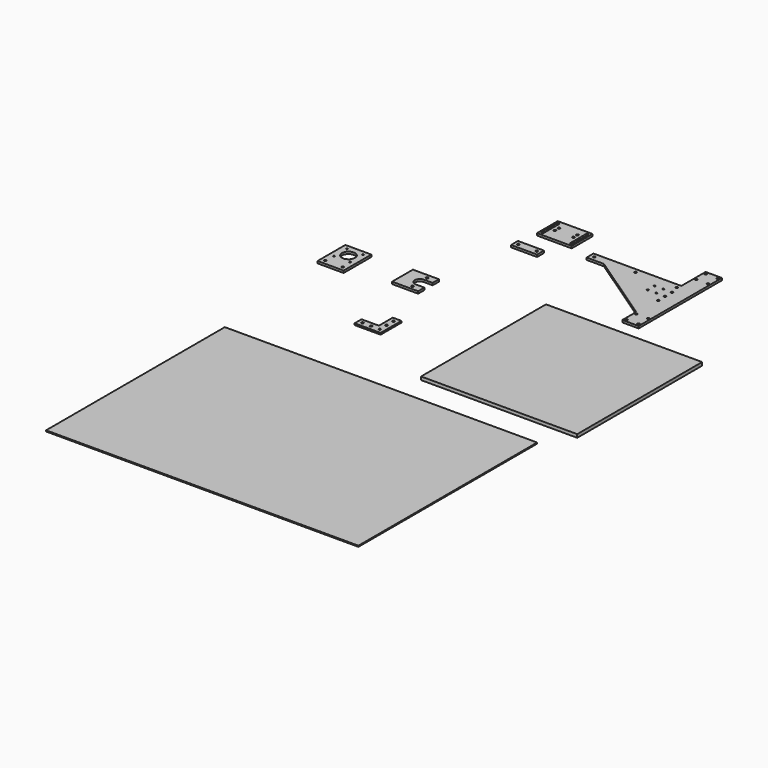
from build123d import *

# Parameters (mm, degrees)
F0_W      = 457.2
F0_H      = 457.2
F1_DEPTH  = 9.525
F2_R      = 3.2
F2_R_2    = 3.175
F2_R_3    = 2.5527
F3_DEPTH  = 6.35
F4_R      = 3.2639
F5_DEPTH  = 4.7752
F6_R      = 3.3
F7_DEPTH  = 6.35
F8_W      = 914.4
F8_H      = 654.05
F9_DEPTH  = 3.175
F11_W     = 101.6
F11_H     = 76.2
F11_R     = 3.302
F11_W_2   = 76.2
F11_H_2   = 25.4
F11_R_2   = 3.175
F12_DEPTH = 6.35
F13_W     = 76.2
F13_H     = 101.6
F13_R     = 3.175
F13_R_2   = 2.5
F13_R_3   = 19.05
F14_DEPTH = 6.35


with BuildPart() as f1:
    # F0 (on Top) → F1 (new body)
    with BuildSketch(Plane.XY):
        Rectangle(F0_W, F0_H)
    extrude(amount=F1_DEPTH)


with BuildPart() as f3:
    # F2 (on Top) → F3 (new body)
    with BuildSketch(Plane.XY):
        Polygon((-47.752, 281.90878), (0, 281.90878), (0, 586.70878), (-47.752, 586.70878), (-47.752, 497.80878), (-254, 497.80878), (-304.8, 497.80878), (-304.8, 472.40878), (-254, 472.40878), (-47.752, 332.70878), align=None)
        with Locations((-41.376, 289.42778)):
            Circle(F2_R, mode=Mode.SUBTRACT)
        with Locations((-6.376, 289.42778)):
            Circle(F2_R, mode=Mode.SUBTRACT)
        with Locations((-41.376, 324.42778)):
            Circle(F2_R, mode=Mode.SUBTRACT)
        with Locations((-6.376, 324.42778)):
            Circle(F2_R, mode=Mode.SUBTRACT)
        with Locations((-44.45, 408.90878)):
            Circle(F2_R_2, mode=Mode.SUBTRACT)
        with Locations((-292.1, 485.10878)):
            Circle(F2_R_2, mode=Mode.SUBTRACT)
        with Locations((-171.45, 485.10878)):
            Circle(F2_R_2, mode=Mode.SUBTRACT)
        with Locations((-95.25, 434.30878)):
            Circle(F2_R_3, mode=Mode.SUBTRACT)
        with Locations((-95.25, 459.70878)):
            Circle(F2_R_3, mode=Mode.SUBTRACT)
        with Locations((-69.85, 434.30878)):
            Circle(F2_R_3, mode=Mode.SUBTRACT)
        with Locations((-44.45, 434.30878)):
            Circle(F2_R_2, mode=Mode.SUBTRACT)
        with Locations((-69.85, 459.70878)):
            Circle(F2_R_3, mode=Mode.SUBTRACT)
        with Locations((-44.45, 459.70878)):
            Circle(F2_R_2, mode=Mode.SUBTRACT)
        with Locations((-50.8, 485.10878)):
            Circle(F2_R_2, mode=Mode.SUBTRACT)
        with Locations((-41.376, 544.18978)):
            Circle(F2_R, mode=Mode.SUBTRACT)
        with Locations((-6.376, 544.18978)):
            Circle(F2_R, mode=Mode.SUBTRACT)
        with Locations((-41.376, 579.18978)):
            Circle(F2_R, mode=Mode.SUBTRACT)
        with Locations((-6.376, 579.18978)):
            Circle(F2_R, mode=Mode.SUBTRACT)
    extrude(amount=F3_DEPTH)


with BuildPart() as f5:
    # F4 (on Top) → F5 (new body)
    with BuildSketch(Plane.XY):
        Polygon((-517.532098, -85.339162), (-517.532098, -110.739162), (-441.332098, -110.739162), (-441.332098, -34.539162), (-466.732098, -34.539162), (-466.732098, -85.339162), align=None)
        with Locations((-504.832098, -98.039162)):
            Circle(F4_R, mode=Mode.SUBTRACT)
        with Locations((-479.432098, -98.039162)):
            Circle(F4_R, mode=Mode.SUBTRACT)
        with Locations((-454.032098, -98.039162)):
            Circle(F4_R, mode=Mode.SUBTRACT)
        with Locations((-454.032098, -72.639162)):
            Circle(F4_R, mode=Mode.SUBTRACT)
        with Locations((-454.032098, -47.239162)):
            Circle(F4_R, mode=Mode.SUBTRACT)
    extrude(amount=F5_DEPTH)


with BuildPart() as f7:
    # F6 (on Top) → F7 (new body)
    with BuildSketch(Plane.XY):
        with BuildLine():
            Line((-526.52049, 177.548654), (-577.32049, 177.548654))
            Line((-577.32049, 177.548654), (-577.32049, 101.348654))
            Line((-577.32049, 101.348654), (-526.52049, 101.348654))
            Line((-526.52049, 101.348654), (-501.12049, 101.348654))
            Line((-501.12049, 101.348654), (-501.12049, 124.448654))
            Line((-501.12049, 124.448654), (-526.52049, 124.448654))
            ThreePointArc((-526.52049, 124.448654), (-541.52049, 139.448654), (-526.52049, 154.448654))
            Line((-526.52049, 154.448654), (-501.12049, 154.448654))
            Line((-501.12049, 154.448654), (-501.12049, 177.548654))
            Line((-501.12049, 177.548654), (-526.52049, 177.548654))
        make_face()
        with Locations((-526.52049, 112.898654)):
            Circle(F6_R, mode=Mode.SUBTRACT)
        with Locations((-526.52049, 165.998654)):
            Circle(F6_R, mode=Mode.SUBTRACT)
    extrude(amount=F7_DEPTH)


with BuildPart() as f9:
    # F8 (on Top) → F9 (new body)
    with BuildSketch(Plane.XY):
        with Locations((-281.926394, -635.689698)):
            Rectangle(F8_W, F8_H)
    extrude(amount=F9_DEPTH)


with BuildPart() as f12:
    # F11 (on Top) → F12 (new body)
    with BuildSketch(Plane.XY):
        with Locations((-417.919297, 533.921762)):
            Rectangle(F11_W, F11_H)
        with Locations((-444.919497, 531.635762)):
            Circle(F11_R, mode=Mode.SUBTRACT)
        with BuildLine():
            Line((-463.639297, 505.346762), (-463.639297, 562.496762))
            ThreePointArc((-463.639297, 562.496762), (-460.464297, 565.671762), (-457.289297, 562.496762))
            Line((-457.289297, 562.496762), (-457.289297, 505.346762))
            ThreePointArc((-457.289297, 505.346762), (-460.464297, 502.171762), (-463.639297, 505.346762))
        make_face(mode=Mode.SUBTRACT)
        with Locations((-444.919497, 546.621762)):
            Circle(F11_R, mode=Mode.SUBTRACT)
        with Locations((-390.919097, 531.635762)):
            Circle(F11_R, mode=Mode.SUBTRACT)
        with Locations((-390.919097, 546.621762)):
            Circle(F11_R, mode=Mode.SUBTRACT)
        with BuildLine():
            ThreePointArc((-378.549297, 562.496762), (-375.374297, 565.671762), (-372.199297, 562.496762))
            Line((-372.199297, 562.496762), (-372.199297, 505.346762))
            ThreePointArc((-372.199297, 505.346762), (-375.374297, 502.171762), (-378.549297, 505.346762))
            Line((-378.549297, 505.346762), (-378.549297, 562.496762))
        make_face(mode=Mode.SUBTRACT)
        with Locations((-440.370012, 425.73747)):
            Rectangle(F11_W_2, F11_H_2)
        with Locations((-467.370212, 425.73747)):
            Circle(F11_R_2, mode=Mode.SUBTRACT)
        with Locations((-413.369812, 425.73747)):
            Circle(F11_R_2, mode=Mode.SUBTRACT)
    extrude(amount=F12_DEPTH)


with BuildPart() as f14:
    # F13 (on Top) → F14 (new body)
    with BuildSketch(Plane.XY):
        with Locations((-736.218512, 125.707536)):
            Rectangle(F13_W, F13_H)
        with Locations((-761.618512, 87.607536)):
            Circle(F13_R, mode=Mode.SUBTRACT)
        with Locations((-759.718512, 116.807536)):
            Circle(F13_R_2, mode=Mode.SUBTRACT)
        with Locations((-710.818512, 87.607536)):
            Circle(F13_R, mode=Mode.SUBTRACT)
        with Locations((-712.718512, 116.807536)):
            Circle(F13_R_2, mode=Mode.SUBTRACT)
        with Locations((-736.218512, 140.307536)):
            Circle(F13_R_3, mode=Mode.SUBTRACT)
        with Locations((-759.718512, 163.807536)):
            Circle(F13_R_2, mode=Mode.SUBTRACT)
        with Locations((-712.718512, 163.807536)):
            Circle(F13_R_2, mode=Mode.SUBTRACT)
    extrude(amount=F14_DEPTH)


solid = Compound([f1.part, f3.part, f5.part, f7.part, f9.part, f12.part, f14.part])
